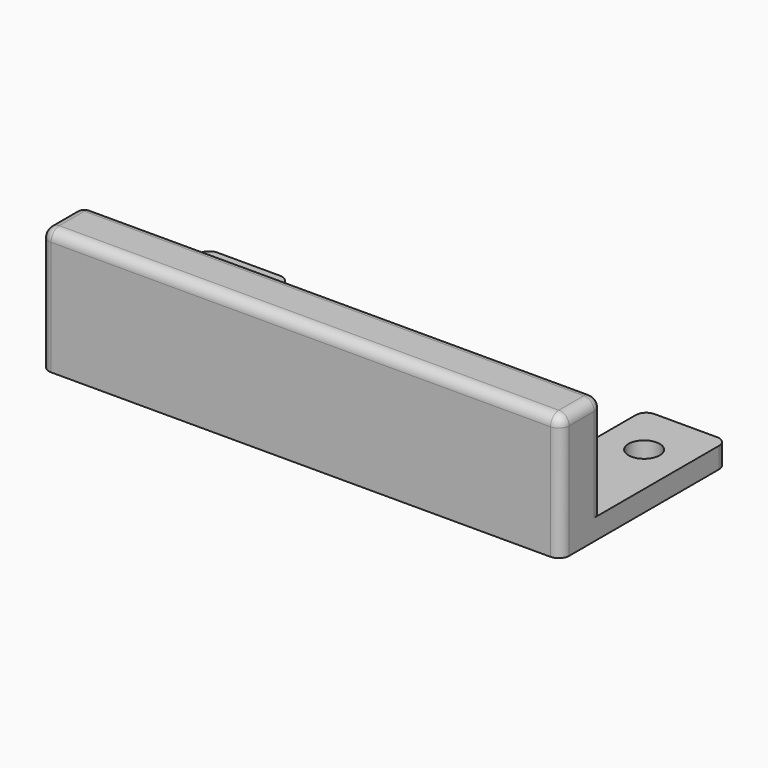
from build123d import *

# Parameters (mm, degrees)
F0_R     = 1.905
F1_DEPTH = 2.54
F2_W     = 63.5
F2_H     = 6.35
F3_DEPTH = 12.7
F4_R     = 1.27
F5_R     = 1.27


with BuildPart() as f1:
    # F0 (on Top) → F1 (new body)
    with BuildSketch(Plane.XY):
        Polygon((5.08, 25.4), (5.08, 0), (68.58, 0), (68.58, 25.4), (58.42, 25.4), (58.42, 15.24), (53.34, 10.16), (20.32, 10.16), (15.24, 15.24), (15.24, 25.4), align=None)
        with Locations((10.16, 19.05)):
            Circle(F0_R, mode=Mode.SUBTRACT)
        with Locations((63.5, 19.05)):
            Circle(F0_R, mode=Mode.SUBTRACT)
    extrude(amount=F1_DEPTH)

    # F2 (on face) → F3 (join)
    with BuildSketch(Plane.XY.offset(2.54)):
        with Locations((36.83, 3.175)):
            Rectangle(F2_W, F2_H)
    extrude(amount=F3_DEPTH)

    # F4
    f4_edges = [f1.edges().sort_by_distance(p)[0] for p in [
        (36.83, 0, 15.24),
        (36.83, 6.35, 15.24),
        (68.58, 0, 7.62),
        (68.58, 6.35, 8.89),
        (68.58, 3.175, 15.24),
        (5.08, 3.175, 15.24),
        (5.08, 0, 7.62),
        (5.08, 6.35, 8.89),
    ]]
    fillet(f4_edges, radius=F4_R)

    # F5
    f5_edges = [f1.edges().sort_by_distance(p)[0] for p in [
        (68.58, 25.4, 1.27),
        (58.42, 25.4, 1.27),
        (15.24, 25.4, 1.27),
        (5.08, 25.4, 1.27),
    ]]
    fillet(f5_edges, radius=F5_R)


solid = f1.part
